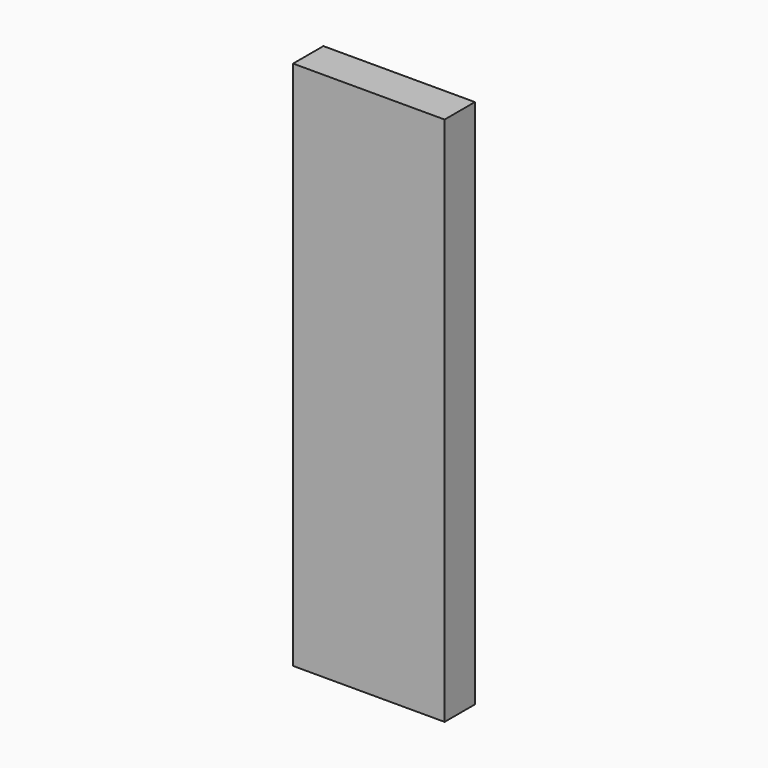
from build123d import *

# Parameters (mm, degrees)
F0_W     = 100
F0_H     = 350
F1_DEPTH = 25
F2_DEPTH = 25
F3_DEPTH = 25


with BuildPart() as f1:
    # F0 (on Front) → F1 (new body)
    with BuildSketch(Plane.XZ):
        with Locations((2.086393, 86.891304)):
            Rectangle(F0_W, F0_H)
    extrude(amount=F1_DEPTH)

    # F0 (on Front) → F2 (join)
    with BuildSketch(Plane.XZ):
        with Locations((2.086393, 86.891304)):
            Rectangle(F0_W, F0_H)
    extrude(amount=F2_DEPTH)

    # F0 (on Front) → F3 (join)
    with BuildSketch(Plane.XZ):
        with Locations((2.086393, 86.891304)):
            Rectangle(F0_W, F0_H)
    extrude(amount=F3_DEPTH)


solid = f1.part
